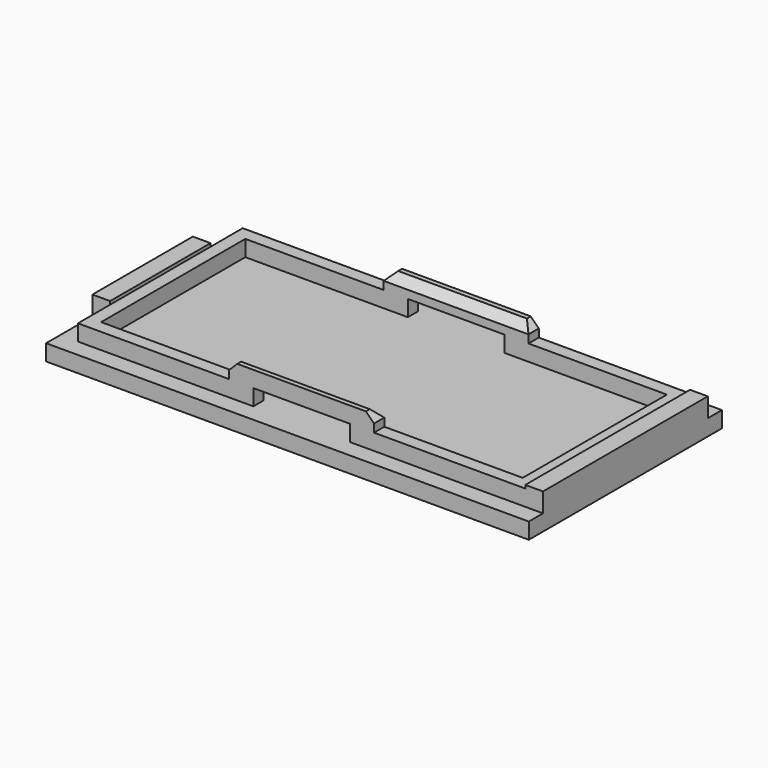
from build123d import *

# Parameters (mm, degrees)
SKETCH_W        = 30
SKETCH_H        = 15
PAD_DEPTH       = 1
SKETCH001_W     = 27.8
SKETCH001_H     = 12.8
SKETCH001_W_2   = 26.2
SKETCH001_H_2   = 11.2
PAD001_DEPTH    = 1
SKETCH002_W     = 1.1
SKETCH002_H     = 7.8
SKETCH002_H_2   = 12.8
PAD002_DEPTH    = 1.2
SKETCH003_W     = 9
SKETCH003_H     = 0.8
PAD003_DEPTH    = 1
SKETCH004_W     = 6
SKETCH004_H     = 1
POCKET_DEPTH    = 13.901
CHAMFER_SIZE    = 0.5
CHAMFER001_SIZE = 0.5


with BuildPart() as part:
    # Sketch → Pad (new body)
    with BuildSketch(Plane.XY):
        Rectangle(SKETCH_W, SKETCH_H)
    extrude(amount=PAD_DEPTH)

    # Sketch001 (on Face6 of Pad) → Pad001 (join)
    with BuildSketch(Plane.XY.offset(1)):
        Rectangle(SKETCH001_W, SKETCH001_H)
        Rectangle(SKETCH001_W_2, SKETCH001_H_2, mode=Mode.SUBTRACT)
    extrude(amount=PAD001_DEPTH)

    # Sketch002 (on Face5 of Pad001) → Pad002 (join)
    with BuildSketch(Plane.XY.offset(1)):
        with Locations((-14.45, 0)):
            Rectangle(SKETCH002_W, SKETCH002_H)
        with Locations((14.45, 0)):
            Rectangle(SKETCH002_W, SKETCH002_H_2)
    extrude(amount=PAD002_DEPTH)

    # Sketch003 (on Face21 of Pad002) → Pad003 (join)
    with BuildSketch(Plane.XY.offset(2)):
        with Locations((0, 6)):
            Rectangle(SKETCH003_W, SKETCH003_H)
        with Locations((0, -6)):
            Rectangle(SKETCH003_W, SKETCH003_H)
    extrude(amount=PAD003_DEPTH)

    # Sketch004 (on Face12 of Pad003) → Pocket (cut, through all)
    with BuildSketch(Plane(origin=(0, 6.4, 0), x_dir=(-1, 0, 0), z_dir=(0, 1, 0))):
        with Locations((0, 1.5)):
            Rectangle(SKETCH004_W, SKETCH004_H)
    extrude(amount=-POCKET_DEPTH, mode=Mode.SUBTRACT)

    # Chamfer
    chamfer_edges = [part.edges().sort_by_distance(p)[0] for p in [
        (-4.5, -6, 3),
        (-4.5, 6, 3),
        (4.5, 6, 3),
        (4.5, -6, 3),
    ]]
    chamfer(chamfer_edges, length=CHAMFER_SIZE)

    # Chamfer001
    chamfer001_edges = [part.edges().sort_by_distance(p)[0] for p in [
        (0, 5.6, 3),
        (0, -5.6, 3),
    ]]
    chamfer(chamfer001_edges, length=CHAMFER001_SIZE)


solid = part.part
